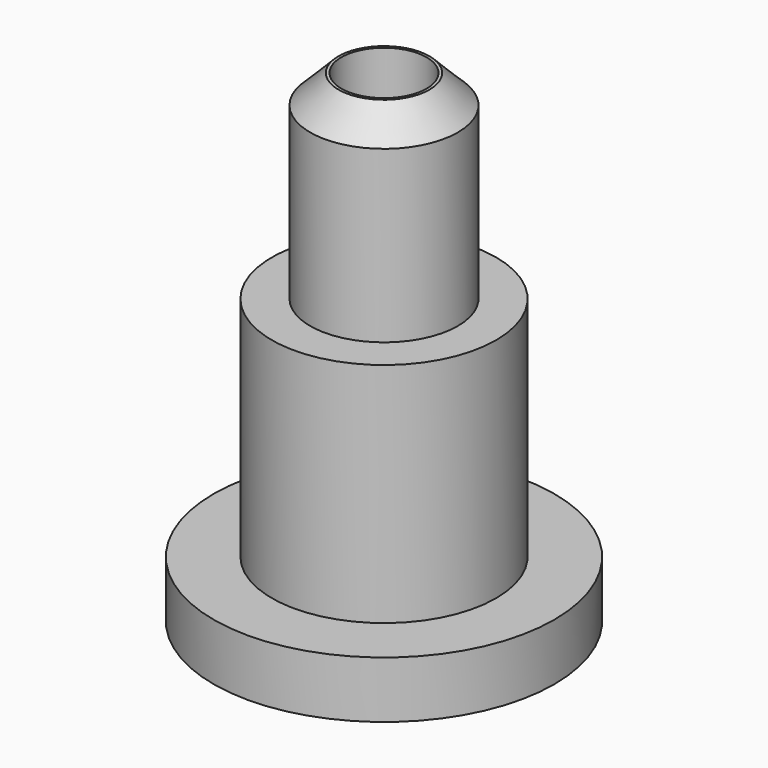
from build123d import *

# Parameters (mm, degrees)
F0_R     = 3.95
F1_DEPTH = 8
F2_R     = 2.6
F3_DEPTH = 7
F4_SIZE  = 1
F5_R     = 6
F6_DEPTH = 2
F7_R     = 1.5
F8_DEPTH = 17.001


with BuildPart() as f1:
    # F0 (on Top) → F1 (new body)
    with BuildSketch(Plane.XY):
        Circle(F0_R)
    extrude(amount=F1_DEPTH)

    # F2 (on face) → F3 (join)
    with BuildSketch(Plane.XY.offset(8)):
        Circle(F2_R)
    extrude(amount=F3_DEPTH)

    # F4
    f4_edges = [f1.edges().sort_by_distance(p)[0] for p in [
        (-2.6, 0, 15),
    ]]
    chamfer(f4_edges, length=F4_SIZE)

    # F5 (on face) → F6 (join)
    with BuildSketch(Plane(origin=(0, 0, 0), x_dir=(1, 0, 0), z_dir=(0, 0, -1))):
        Circle(F5_R)
    extrude(amount=F6_DEPTH)

    # F7 (on face) → F8 (cut, through all)
    with BuildSketch(Plane(origin=(0, 0, -2), x_dir=(1, 0, 0), z_dir=(0, 0, -1))):
        Circle(F7_R)
    extrude(amount=-F8_DEPTH, mode=Mode.SUBTRACT)


solid = f1.part
